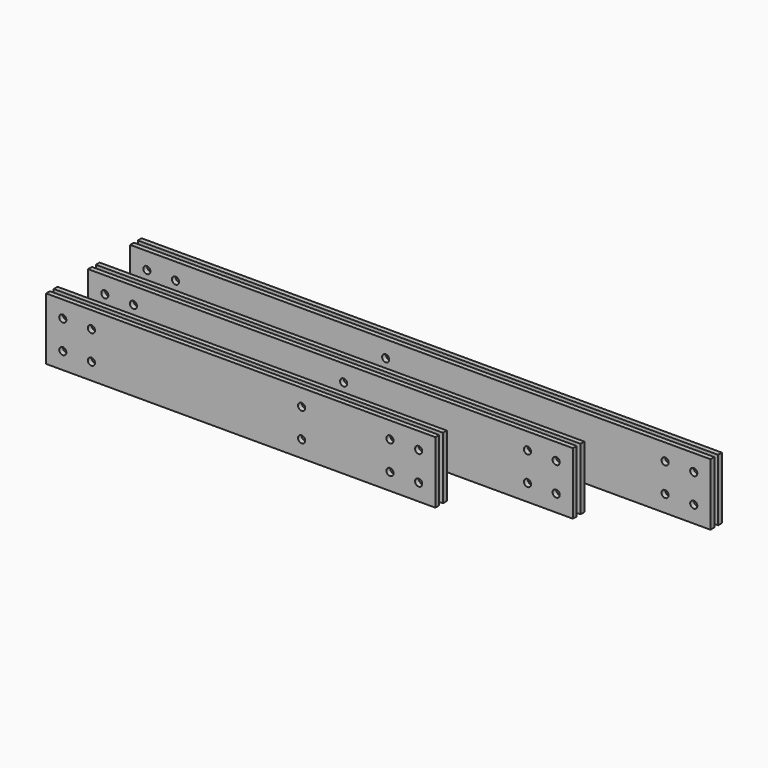
from build123d import *

# Parameters (mm, degrees)
F0_W     = 771.525
F0_H     = 6.35
F0_W_2   = 644.525
F0_W_3   = 517.525
F1_DEPTH = 41.275
F2_R     = 4.7625
F3_DEPTH = 158.751
F4_R     = 4.7625
F5_DEPTH = 19.05
F6_R     = 4.7625
F7_DEPTH = 19.05
F8_R     = 4.7625
F9_DEPTH = 19.05


with BuildPart() as f1:
    # F0 (on Top) → F1 (new body, symmetric)
    with BuildSketch(Plane.XY):
        with Locations((385.7625, -3.175)):
            Rectangle(F0_W, F0_H)
        with Locations((385.7625, -15.875)):
            Rectangle(F0_W, F0_H)
        with Locations((322.2625, -73.025)):
            Rectangle(F0_W_2, F0_H)
        with Locations((322.2625, -85.725)):
            Rectangle(F0_W_2, F0_H)
        with Locations((258.7625, -142.875)):
            Rectangle(F0_W_3, F0_H)
        with Locations((258.7625, -155.575)):
            Rectangle(F0_W_3, F0_H)
    extrude(amount=F1_DEPTH, both=True)

    # F2 (on face) → F3 (cut, through all)
    with BuildSketch(Plane.XZ.offset(158.75)):
        with Locations((22.225, 19.05)):
            Circle(F2_R)
        with Locations((22.225, -19.05)):
            Circle(F2_R)
        with Locations((60.325, -19.05)):
            Circle(F2_R)
        with Locations((60.325, 19.05)):
            Circle(F2_R)
        with Locations((339.725, 19.05)):
            Circle(F2_R)
        with Locations((339.725, -19.05)):
            Circle(F2_R)
    extrude(amount=-F3_DEPTH, mode=Mode.SUBTRACT)

    # F4 (on face) → F5 (cut, through all)
    with BuildSketch(Plane.XZ.offset(158.75)):
        with Locations((457.2, 19.05)):
            Circle(F4_R)
        with Locations((457.2, -19.05)):
            Circle(F4_R)
        with Locations((495.3, -19.05)):
            Circle(F4_R)
        with Locations((495.3, 19.05)):
            Circle(F4_R)
    extrude(amount=-F5_DEPTH, mode=Mode.SUBTRACT)

    # F6 (on face) → F7 (cut, through all)
    with BuildSketch(Plane.XZ.offset(88.9)):
        with Locations((584.2, 19.05)):
            Circle(F6_R)
        with Locations((584.2, -19.05)):
            Circle(F6_R)
        with Locations((622.3, -19.05)):
            Circle(F6_R)
        with Locations((622.3, 19.05)):
            Circle(F6_R)
    extrude(amount=-F7_DEPTH, mode=Mode.SUBTRACT)

    # F8 (on face) → F9 (cut, through all)
    with BuildSketch(Plane.XZ.offset(19.05)):
        with Locations((711.2, 19.05)):
            Circle(F8_R)
        with Locations((711.2, -19.05)):
            Circle(F8_R)
        with Locations((749.3, -19.05)):
            Circle(F8_R)
        with Locations((749.3, 19.05)):
            Circle(F8_R)
    extrude(amount=-F9_DEPTH, mode=Mode.SUBTRACT)


solid = f1.part
